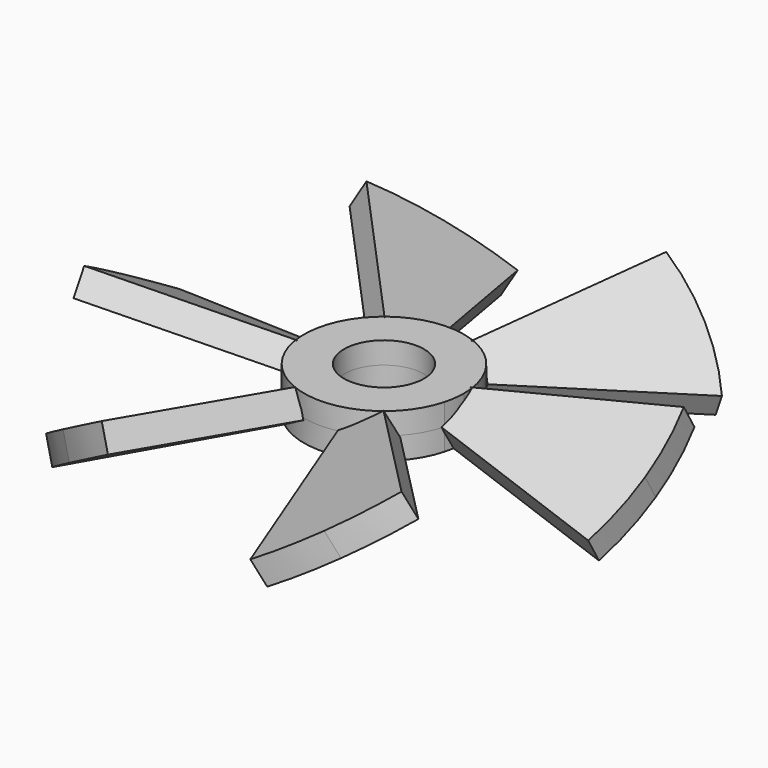
from build123d import *

# Parameters (mm, degrees)
F1_DEPTH      = 5
F1_DEPTH_BACK = 5
F2_ANGLE      = 30
F4_COUNT      = 6
F5_DEPTH      = 8.2124126955
F5_DEPTH_BACK = 8.2124126955


with BuildPart() as f1:
    # F0 (on Top) → F1 (new body, two sides)
    with BuildSketch(Plane.XY) as f1_sk:
        with BuildLine():
            Line((30, 0), (100, 0))
            ThreePointArc((100, 0), (99.1444861374, 13.052619222), (96.5925826289, 25.8819045103))
            Line((96.5925826289, 25.8819045103), (28.9777747887, 7.7645713531))
            ThreePointArc((28.9777747887, 7.7645713531), (29.7433458412, 3.9157857666), (30, 0))
        make_face()
        with BuildLine():
            ThreePointArc((96.5925826289, -25.8819045103), (99.1444861374, -13.052619222), (100, 0))
            Line((100, 0), (30, 0))
            ThreePointArc((30, 0), (29.7433458412, -3.9157857666), (28.9777747887, -7.7645713531))
            Line((28.9777747887, -7.7645713531), (96.5925826289, -25.8819045103))
        make_face()
    extrude(amount=F1_DEPTH)
    extrude(f1_sk.sketch, amount=-F1_DEPTH_BACK)


with BuildPart() as f1_1:
    # F2: moved
    add(f1.part.rotate(Axis((50, 0, 0), (1, 0, 0)), F2_ANGLE))


with BuildPart() as f4_1:
    # F4: instance of F1
    add(f1_1.part.rotate(Axis((0, 0, 33.8852107525), (0, 0, 1)), 1 * 360 / F4_COUNT))


with BuildPart() as f4_2:
    # F4: instance of F1
    add(f1_1.part.rotate(Axis((0, 0, 33.8852107525), (0, 0, 1)), 2 * 360 / F4_COUNT))


with BuildPart() as f4_3:
    # F4: instance of F1
    add(f1_1.part.rotate(Axis((0, 0, 33.8852107525), (0, 0, 1)), 3 * 360 / F4_COUNT))


with BuildPart() as f4_4:
    # F4: instance of F1
    add(f1_1.part.rotate(Axis((0, 0, 33.8852107525), (0, 0, 1)), 4 * 360 / F4_COUNT))


with BuildPart() as f4_5:
    # F4: instance of F1
    add(f1_1.part.rotate(Axis((0, 0, 33.8852107525), (0, 0, 1)), 5 * 360 / F4_COUNT))


with BuildPart() as f5:
    # F0 (on Top) → F5 (new body, two sides)
    with BuildSketch(Plane.XY) as f5_sk:
        with BuildLine():
            Line((14.4888873943, 3.8822856765), (28.9777747887, 7.7645713531))
            ThreePointArc((28.9777747887, 7.7645713531), (-30, 0), (28.9777747887, -7.7645713531))
            Line((28.9777747887, -7.7645713531), (14.4888873943, -3.8822856765))
            ThreePointArc((14.4888873943, -3.8822856765), (-15, 0), (14.4888873943, 3.8822856765))
        make_face()
        with BuildLine():
            Line((15, 0), (30, 0))
            ThreePointArc((30, 0), (29.7433458412, 3.9157857666), (28.9777747887, 7.7645713531))
            Line((28.9777747887, 7.7645713531), (14.4888873943, 3.8822856765))
            ThreePointArc((14.4888873943, 3.8822856765), (14.8716729206, 1.9578928833), (15, 0))
        make_face()
        with BuildLine():
            ThreePointArc((28.9777747887, -7.7645713531), (29.7433458412, -3.9157857666), (30, 0))
            Line((30, 0), (15, 0))
            ThreePointArc((15, 0), (14.8716729206, -1.9578928833), (14.4888873943, -3.8822856765))
            Line((14.4888873943, -3.8822856765), (28.9777747887, -7.7645713531))
        make_face()
    extrude(amount=F5_DEPTH)
    extrude(f5_sk.sketch, amount=-F5_DEPTH_BACK)


solid = Compound([f1_1.part, f4_1.part, f4_2.part, f4_3.part, f4_4.part, f4_5.part, f5.part])
